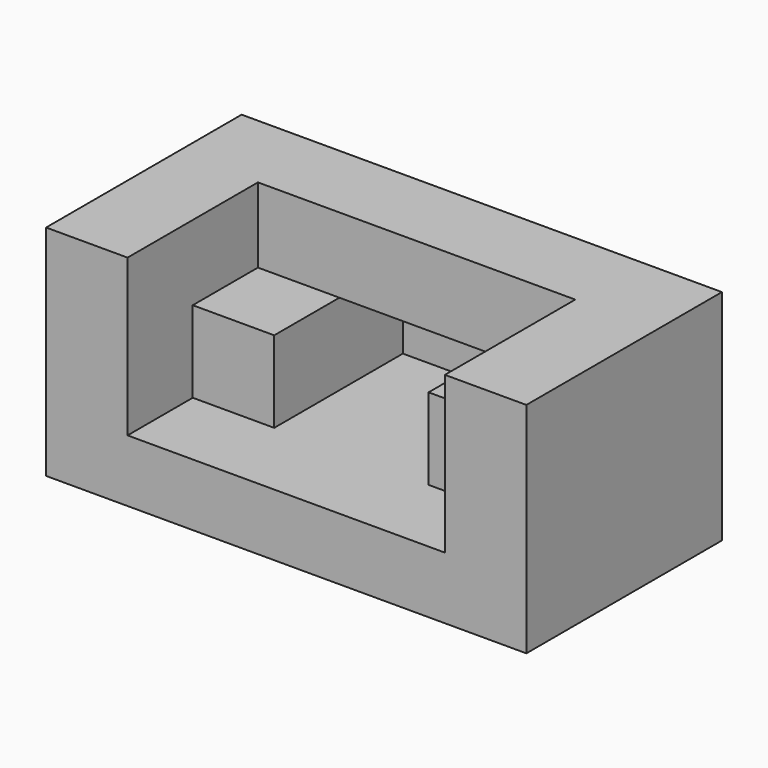
from build123d import *

# Parameters (mm, degrees)
F1_DEPTH = 57
F2_W     = 19
F2_H     = 19
F3_DEPTH = 38
F4_W     = 74
F4_H     = 17.495044
F5_DEPTH = 19
F6_W     = 40
F6_H     = 19
F7_DEPTH = 0.5


with BuildPart() as f1:
    # F0 (on Front) → F1 (new body)
    with BuildSketch(Plane.XZ):
        Polygon((-56, 0), (0, 0), (56, 0), (56, 51), (37, 51), (37, 14.504956), (-37, 14.504956), (-37, 51), (-56, 51), align=None)
    extrude(amount=F1_DEPTH)

    # F2 (on face) → F3 (join)
    with BuildSketch(Plane(origin=(0, 0, 0), x_dir=(-1, 0, 0), z_dir=(0, 1, 0))):
        with Locations((27.5, 24.004956)):
            Rectangle(F2_W, F2_H)
        with Locations((-27.5, 24.004956)):
            Rectangle(F2_W, F2_H)
    extrude(amount=-F3_DEPTH)

    # F4 (on face) → F5 (join)
    with BuildSketch(Plane(origin=(0, 0, 0), x_dir=(-1, 0, 0), z_dir=(0, 1, 0))):
        with Locations((0, 42.252478)):
            Rectangle(F4_W, F4_H)
    extrude(amount=-F5_DEPTH)

    # F6 (on face) → F7 (join, symmetric)
    with BuildSketch(Plane(origin=(0, 0, 0), x_dir=(-1, 0, 0), z_dir=(0, 1, 0))):
        with Locations((-1.049917, 24.004956)):
            Rectangle(F6_W, F6_H)
    extrude(amount=F7_DEPTH, both=True)


solid = f1.part
